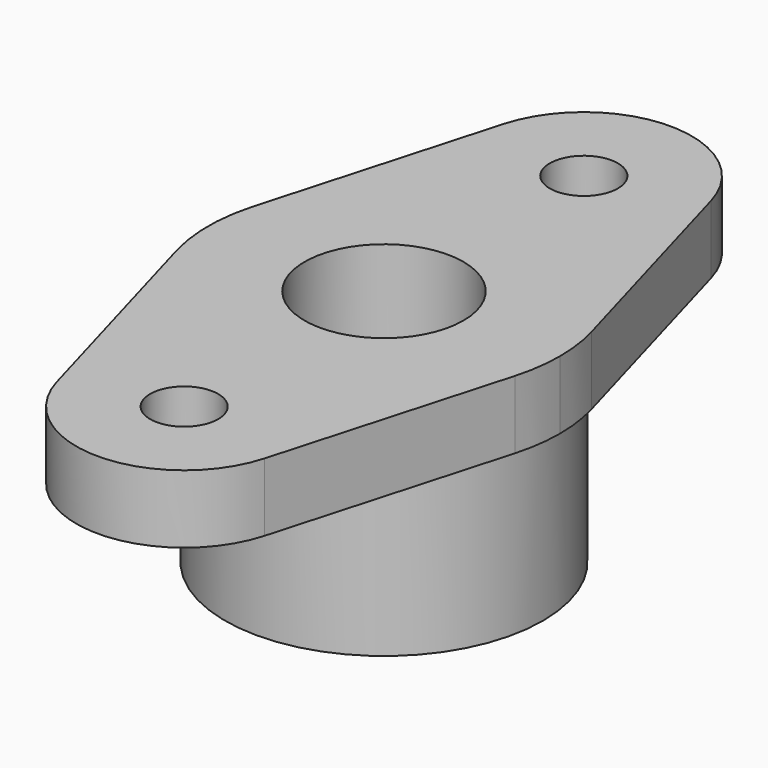
from build123d import *

# Parameters (mm, degrees)
F0_R     = 6
F0_R_2   = 14
F1_DEPTH = 12
F2_R     = 28
F2_R_2   = 14
F3_DEPTH = 30


with BuildPart() as f1:
    # F0 (on Top) → F1 (new body)
    with BuildSketch(Plane.XY):
        with BuildLine():
            ThreePointArc((11.4242022345, 28.8181818182), (17.0008800133, 35.5164819342), (19, 44))
            ThreePointArc((19, 44), (18.8190726431, 46.6158182), (18.279736331, 49.1818181818))
            ThreePointArc((18.279736331, 49.1818181818), (0, 63), (-18.279736331, 49.1818181818))
            ThreePointArc((-18.279736331, 49.1818181818), (-18.0069545749, 37.9378562425), (-11.4242022345, 28.8181818182))
            ThreePointArc((-11.4242022345, 28.8181818182), (0, 31), (11.4242022345, 28.8181818182))
        make_face()
        with Locations((0, 44)):
            Circle(F0_R, mode=Mode.SUBTRACT)
        with BuildLine():
            ThreePointArc((-11.4242022345, 28.8181818182), (-18.0069545749, 37.9378562425), (-18.279736331, 49.1818181818))
            Line((-18.279736331, 49.1818181818), (-29.8248329611, 8.4545454545))
            ThreePointArc((-29.8248329611, 8.4545454545), (-23.000872758, 20.7836438665), (-11.4242022345, 28.8181818182))
        make_face()
        with BuildLine():
            ThreePointArc((18.279736331, 49.1818181818), (18.8190726431, 46.6158182), (19, 44))
            ThreePointArc((19, 44), (17.0008800133, 35.5164819342), (11.4242022345, 28.8181818182))
            ThreePointArc((11.4242022345, 28.8181818182), (23.000872758, 20.7836438665), (29.8248329611, 8.4545454545))
            Line((29.8248329611, 8.4545454545), (18.279736331, 49.1818181818))
        make_face()
        with BuildLine():
            ThreePointArc((-11.4242022345, 28.8181818182), (0, 25), (11.4242022345, 28.8181818182))
            ThreePointArc((11.4242022345, 28.8181818182), (0, 31), (-11.4242022345, 28.8181818182))
        make_face()
        with BuildLine():
            ThreePointArc((29.8248329611, 8.4545454545), (23.000872758, 20.7836438665), (11.4242022345, 28.8181818182))
            ThreePointArc((11.4242022345, 28.8181818182), (0, 25), (-11.4242022345, 28.8181818182))
            ThreePointArc((-11.4242022345, 28.8181818182), (-23.000872758, 20.7836438665), (-29.8248329611, 8.4545454545))
            ThreePointArc((-29.8248329611, 8.4545454545), (-31, 0), (-29.8248329611, -8.4545454545))
            ThreePointArc((-29.8248329611, -8.4545454545), (-23.000872758, -20.7836438665), (-11.4242022345, -28.8181818182))
            ThreePointArc((-11.4242022345, -28.8181818182), (0, -25), (11.4242022345, -28.8181818182))
            ThreePointArc((11.4242022345, -28.8181818182), (23.000872758, -20.7836438665), (29.8248329611, -8.4545454545))
            ThreePointArc((29.8248329611, -8.4545454545), (30.7048027334, -4.2679139053), (31, 0))
            ThreePointArc((31, 0), (30.7048027334, 4.2679139053), (29.8248329611, 8.4545454545))
        make_face()
        Circle(F0_R_2, mode=Mode.SUBTRACT)
        with BuildLine():
            ThreePointArc((11.4242022345, -28.8181818182), (0, -25), (-11.4242022345, -28.8181818182))
            ThreePointArc((-11.4242022345, -28.8181818182), (0, -31), (11.4242022345, -28.8181818182))
        make_face()
        with BuildLine():
            ThreePointArc((-11.4242022345, -28.8181818182), (-23.000872758, -20.7836438665), (-29.8248329611, -8.4545454545))
            Line((-29.8248329611, -8.4545454545), (-18.279736331, -49.1818181818))
            ThreePointArc((-18.279736331, -49.1818181818), (-18.0069545749, -37.9378562425), (-11.4242022345, -28.8181818182))
        make_face()
        with BuildLine():
            Line((18.279736331, -49.1818181818), (29.8248329611, -8.4545454545))
            ThreePointArc((29.8248329611, -8.4545454545), (23.000872758, -20.7836438665), (11.4242022345, -28.8181818182))
            ThreePointArc((11.4242022345, -28.8181818182), (17.0008800133, -35.5164819342), (19, -44))
            ThreePointArc((19, -44), (18.8190726431, -46.6158182), (18.279736331, -49.1818181818))
        make_face()
        with BuildLine():
            ThreePointArc((11.4242022345, -28.8181818182), (0, -31), (-11.4242022345, -28.8181818182))
            ThreePointArc((-11.4242022345, -28.8181818182), (-18.0069545749, -37.9378562425), (-18.279736331, -49.1818181818))
            ThreePointArc((-18.279736331, -49.1818181818), (0, -63), (18.279736331, -49.1818181818))
            ThreePointArc((18.279736331, -49.1818181818), (18.8190726431, -46.6158182), (19, -44))
            ThreePointArc((19, -44), (17.0008800133, -35.5164819342), (11.4242022345, -28.8181818182))
        make_face()
        with Locations((0, -44)):
            Circle(F0_R, mode=Mode.SUBTRACT)
    extrude(amount=F1_DEPTH)

    # F2 (on face) → F3 (join)
    with BuildSketch(Plane(origin=(0, 0, 0), x_dir=(1, 0, 0), z_dir=(0, 0, -1))):
        Circle(F2_R)
        Circle(F2_R_2, mode=Mode.SUBTRACT)
    extrude(amount=F3_DEPTH)

    # F4 (on Front) → F5 (revolve, cut)
    with BuildSketch(Plane.XZ):
        Polygon((28, -30), (14, -21.9170962313), (14, -30), align=None)
    revolve(axis=Axis((0, 0, -30), (0, 0, -1)), mode=Mode.SUBTRACT)


solid = f1.part
